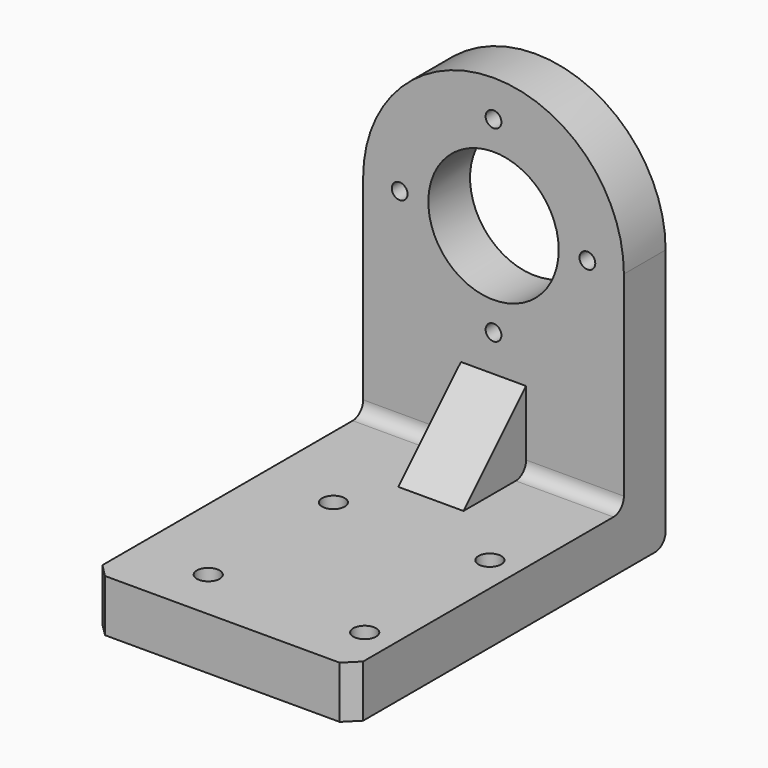
from build123d import *

# Parameters (mm, degrees)
F0_W           = 200
F0_H           = 40
F0_R           = 7
F0_R_2         = 50
F1_DEPTH       = 40
F2_D           = 12.1
F3_DEPTH       = 300
F5_DEPTH       = 25
F7_SIZE        = 10
F8_R           = 10
F9_D           = 17.5
F9_CBORE_D     = 31.5
F9_CBORE_DEPTH = 20


with BuildPart() as f1:
    # F0 (on Front) → F1 (new body)
    with BuildSketch(Plane.XZ):
        with Locations((0, 20)):
            Rectangle(F0_W, F0_H)
        with BuildLine():
            Line((-100, 200), (-100, 40))
            Line((-100, 40), (100, 40))
            Line((100, 40), (100, 200))
            ThreePointArc((100, 200), (0, 300), (-100, 200))
        make_face()
        with Locations((0, 128)):
            Circle(F0_R, mode=Mode.SUBTRACT)
        with Locations((-72, 200)):
            Circle(F0_R, mode=Mode.SUBTRACT)
        with Locations((0, 200)):
            Circle(F0_R_2, mode=Mode.SUBTRACT)
        with Locations((72, 200)):
            Circle(F0_R, mode=Mode.SUBTRACT)
        with Locations((0, 272)):
            Circle(F0_R, mode=Mode.SUBTRACT)
        with Locations((-72, 200)):
            Circle(F0_R)
        with Locations((0, 272)):
            Circle(F0_R)
        with Locations((72, 200)):
            Circle(F0_R)
        with Locations((0, 128)):
            Circle(F0_R)
    extrude(amount=F1_DEPTH)

    # F2 (through all)
    with Locations(Plane(origin=(0, 0, 0), x_dir=(1, 0, 0), z_dir=(0, 1, 0))):
        with Locations((0, -272), (72, -200), (0, -128), (-72, -200)):
            Hole(F2_D / 2)

    # F0 (on Front) → F3 (join)
    with BuildSketch(Plane.XZ):
        with Locations((0, 20)):
            Rectangle(F0_W, F0_H)
    extrude(amount=F3_DEPTH)

    # F4 (on Right) → F5 (join, symmetric)
    with BuildSketch(Plane.YZ):
        Polygon((-100, 40), (-40, 40), (-40, 100), align=None)
    extrude(amount=F5_DEPTH, both=True)

    # F7
    f7_edges = [f1.edges().sort_by_distance(p)[0] for p in [
        (-100, -300, 20),
        (100, -300, 20),
    ]]
    chamfer(f7_edges, length=F7_SIZE)

    # F8
    f8_edges = [f1.edges().sort_by_distance(p)[0] for p in [
        (-62.5, -40, 40),
        (62.5, -40, 40),
        (0, 0, 0),
    ]]
    fillet(f8_edges, radius=F8_R)

    # F9 (through all)
    with Locations(Plane(origin=(0, 0, 0), x_dir=(1, 0, 0), z_dir=(0, 0, -1))):
        with Locations((-42.8080064058, 260), (77.1919935942, 260), (77.1919935942, 140), (-42.8080064058, 140)):
            CounterBoreHole(F9_D / 2, F9_CBORE_D / 2, F9_CBORE_DEPTH)


solid = f1.part
